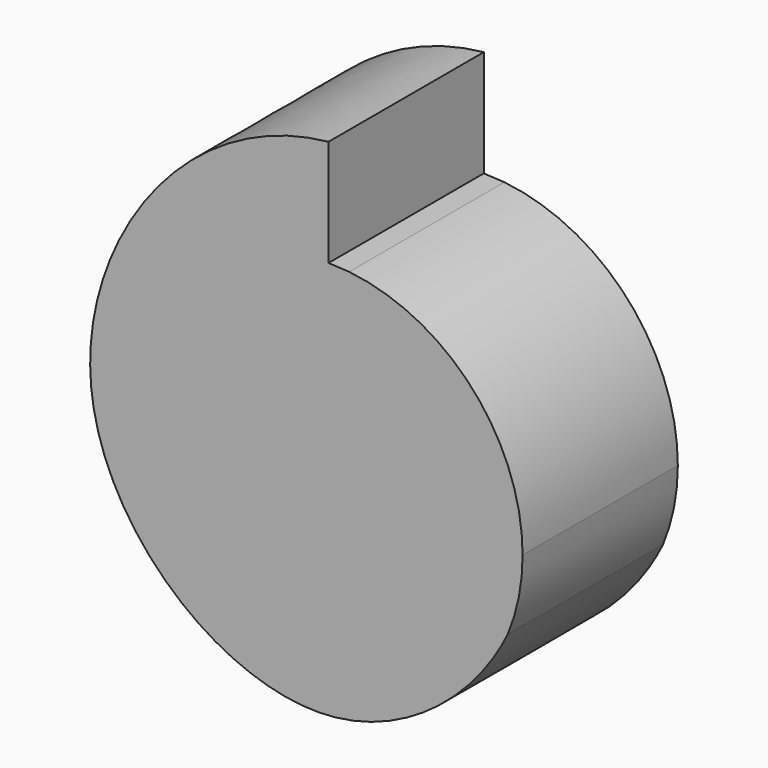
from build123d import *

# Parameters (mm, degrees)
F1_DEPTH = 25.4


with BuildPart() as f1:
    # F0 (on Front) → F1 (new body)
    with BuildSketch(Plane.XZ):
        with BuildLine():
            ThreePointArc((14.261975499, -21.0179935975), (-24.2797965125, -7.459992045), (0, 25.4))
            Line((0, 25.4), (0, 39.37))
            add(Edge.make_bspline(
                [(0, 39.37), (-19.553380087, 37.3347476125), (-45.5671340259, -1.5697728715), (-8.319397981, -32.2288283909), (10.069599463, -24.265725606), (14.261975499, -21.0179935975)],
                knots=[0, 0, 0, 0, 0.2762654828, 0.5259592689, 0.6180466386, 0.6180466386, 0.6180466386, 0.6180466386], degree=3))
        make_face()
        with BuildLine():
            ThreePointArc((23.4435268904, -9.7755330769), (24.9060794086, -4.9846974323), (25.4, 0))
            ThreePointArc((25.4, 0), (18.8885688435, 16.9818128315), (2.6927585006, 25.2568614768))
            add(Edge.make_bspline(
                [(2.6927585006, 25.2568614768), (1.8135864389, 25.3433698488), (0.9156429342, 25.3918395582), (0, 25.4)],
                knots=[0.9865811397, 0.9865811397, 0.9865811397, 0.9865811397, 1, 1, 1, 1], degree=3))
            ThreePointArc((0, 25.4), (-24.2797965125, -7.459992045), (14.261975499, -21.0179935975))
            add(Edge.make_bspline(
                [(14.261975499, -21.0179935975), (18.1280082, -18.0230718536), (21.3458508833, -14.0908635275), (23.4435268904, -9.7755330769)],
                knots=[0.6180466386, 0.6180466386, 0.6180466386, 0.6180466386, 0.7029657344, 0.7029657344, 0.7029657344, 0.7029657344], degree=3))
        make_face()
    extrude(amount=F1_DEPTH)


solid = f1.part
